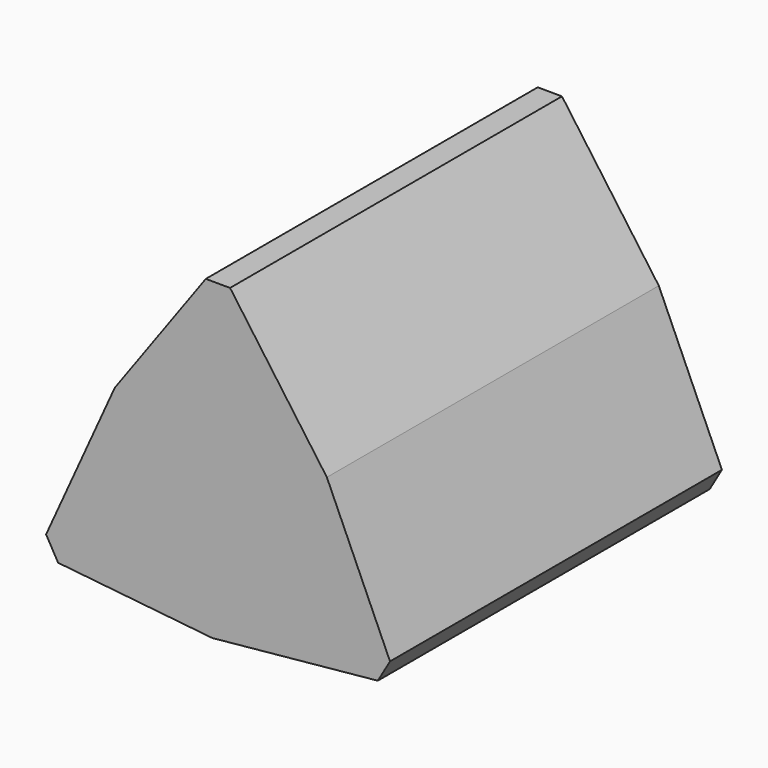
from build123d import *

# Parameters (mm, degrees)
F1_DEPTH = 50
F2_SIZE  = 5


with BuildPart() as f1:
    # F0 (on Front) → F1 (new body, symmetric)
    with BuildSketch(Plane.XZ):
        Polygon((26.245609, 13.570482), (0, 0), (43.497787, -25.113462), align=None)
        Polygon((43.497787, -25.113462), (0, 0), (-1.370423, -29.514605), align=None)
        Polygon((0, 50.226919), (0, 0), (26.245609, 13.570482), align=None)
        Polygon((-24.875186, 15.944123), (0, 0), (0, 50.226919), align=None)
        Polygon((-43.497791, -25.113455), (0, 0), (-24.875186, 15.944123), align=None)
        Polygon((-1.370423, -29.514605), (0, 0), (-43.497791, -25.113455), align=None)
    extrude(amount=F1_DEPTH, both=True)

    # F2
    f2_edges = [f1.edges().sort_by_distance(p)[0] for p in [
        (-43.497791, 0, -25.113455),
        (43.497787, 0, -25.113462),
        (0, 0, 50.226919),
    ]]
    chamfer(f2_edges, length=F2_SIZE)


solid = f1.part
